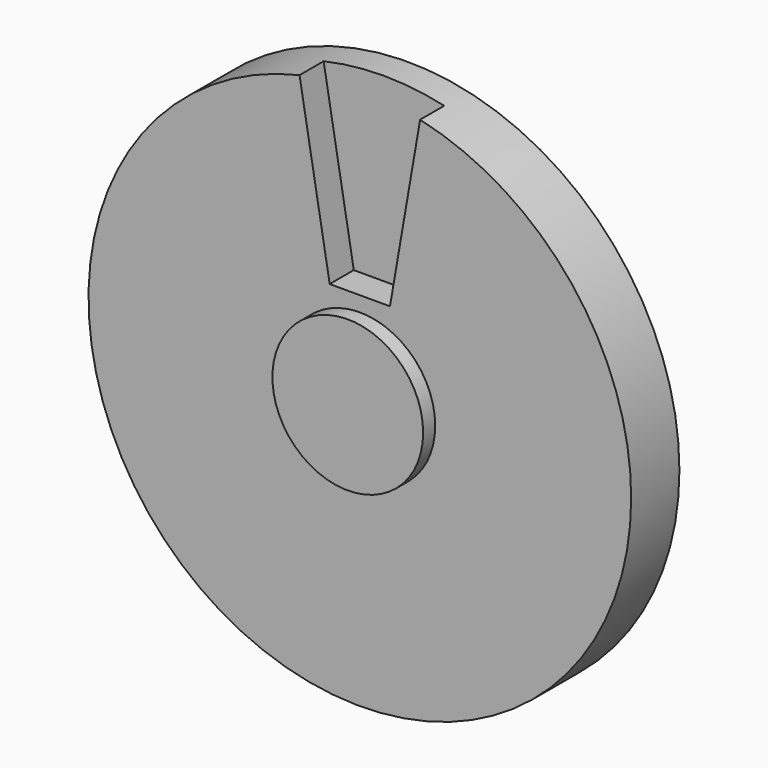
from build123d import *

# Parameters (mm, degrees)
F0_R     = 6.35
F2_DEPTH = 3.81
F1_R     = 22.86
F3_DEPTH = 2.54
F5_DEPTH = 2.54


with BuildPart() as f2:
    # F0 (on Front) → F2 (new body, symmetric)
    with BuildSketch(Plane.XZ):
        Circle(F0_R)
    extrude(amount=F2_DEPTH, both=True)


with BuildPart() as f3:
    # F1 (on Front) → F3 (new body, symmetric)
    with BuildSketch(Plane.XZ):
        Circle(F1_R)
    extrude(amount=F3_DEPTH, both=True)

    # F4 (on face) → F5 (cut)
    with BuildSketch(Plane.XZ.offset(2.54)):
        with BuildLine():
            Line((-5.08, 22.288409544), (-2.54, 7.62))
            Line((-2.54, 7.62), (2.54, 7.62))
            Line((2.54, 7.62), (5.08, 22.288409544))
            ThreePointArc((5.08, 22.288409544), (0, 22.86), (-5.08, 22.288409544))
        make_face()
    extrude(amount=-F5_DEPTH, mode=Mode.SUBTRACT)


solid = Compound([f2.part, f3.part])
